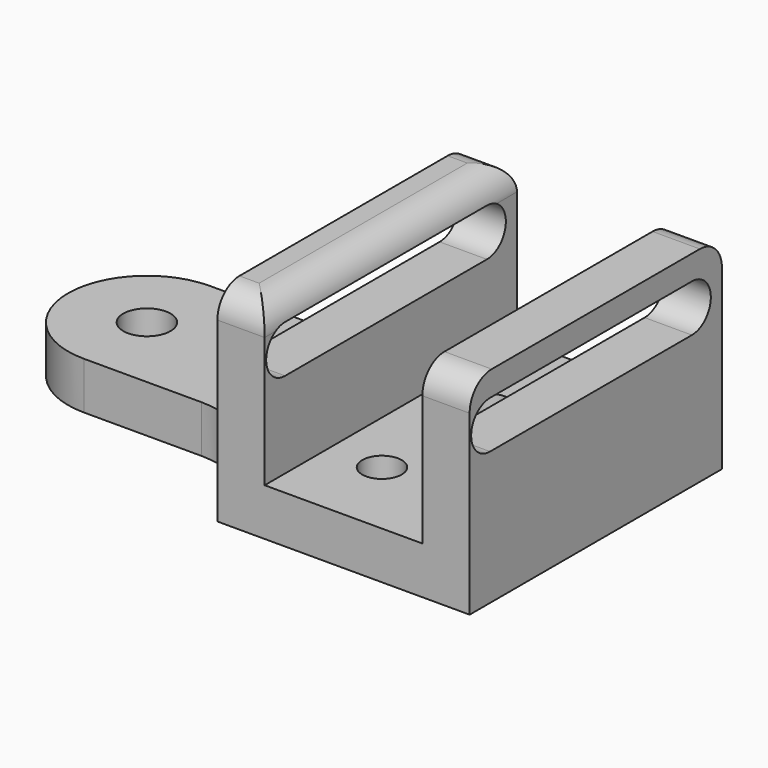
from build123d import *

# Parameters (mm, degrees)
F0_R     = 5
F0_R_2   = 6
F1_DEPTH = 12
F3_DEPTH = 80
F4_R     = 7
F5_W     = 64
F5_H     = 12
F6_DEPTH = 77.1


with BuildPart() as f1:
    # F0 (on Top) → F1 (new body)
    with BuildSketch(Plane.XY):
        with BuildLine():
            Line((29.965228, 20), (0, 20))
            ThreePointArc((0, 20), (-20, 0), (0, -20))
            Line((0, -20), (29.860913, -20))
            ThreePointArc((29.860913, -20), (44.003049, -25.857864), (49.860913, -40))
            Line((49.860913, -40), (102, -40))
            Line((102, -40), (102, -33))
            Line((102, -33), (113.873083, -33))
            Line((113.873083, -33), (113.873083, 33))
            Line((113.873083, 33), (102, 33))
            Line((102, 33), (102, 40))
            Line((102, 40), (50, 40))
            ThreePointArc((50, 40), (44.142136, 25.857864), (30, 20))
            Line((30, 20), (29.965228, 20))
        make_face()
        with Locations((75.211979, -19.481467)):
            Circle(F0_R, mode=Mode.SUBTRACT)
        Circle(F0_R_2, mode=Mode.SUBTRACT)
        with Locations((75.211979, 14.518533)):
            Circle(F0_R, mode=Mode.SUBTRACT)
    extrude(amount=F1_DEPTH)

    # F2 (on face) → F3 (join)
    with BuildSketch(Plane(origin=(0, 40, 0), x_dir=(-1, 0, 0), z_dir=(0, 1, 0))):
        Polygon((-113.873083, 52), (-113.873083, 0), (-102, 0), (-102, 12), (-101.873083, 12), (-101.873083, 52), align=None)
        Polygon((-61.873083, 52), (-61.873083, 12), (-50, 12), (-50, 0), (-49.873083, 0), (-49.873083, 52), align=None)
        Polygon((-61.873083, 52), (-61.873083, 12), (-50, 12), (-50, 0), (-49.873083, 0), (-49.873083, 52), align=None)
    extrude(amount=-F3_DEPTH)

    # F4
    f4_edges = [f1.edges().sort_by_distance(p)[0] for p in [
        (107.873083, 40, 52),
        (55.873083, 40, 52),
        (55.873083, -40, 52),
        (107.873083, -40, 52),
        (61.873083, 0, 52),
    ]]
    fillet(f4_edges, radius=F4_R)

    # F5 (on face) → F6 (cut)
    with BuildSketch(Plane(origin=(49.873083, 0, 0), x_dir=(0, -1, 0), z_dir=(-1, 0, 0))):
        with Locations((1.51522, 39.79838)):
            Rectangle(F5_W, F5_H)
        with BuildLine():
            Line((-30.48478, 33.79838), (-30.48478, 45.79838))
            ThreePointArc((-30.48478, 45.79838), (-36.48478, 39.79838), (-30.48478, 33.79838))
        make_face()
        with BuildLine():
            ThreePointArc((33.51522, 33.79838), (39.51522, 39.79838), (33.51522, 45.79838))
            Line((33.51522, 45.79838), (33.51522, 33.79838))
        make_face()
    extrude(amount=-F6_DEPTH, mode=Mode.SUBTRACT)


solid = f1.part
